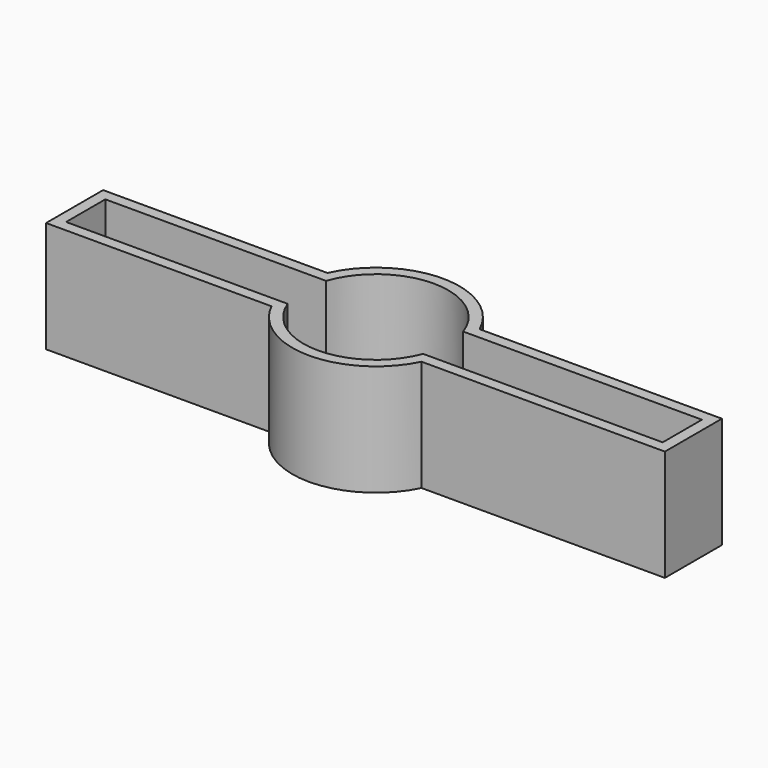
from build123d import *

# Parameters (mm, degrees)
F1_DEPTH = 25
F2_T     = -2.5


with BuildPart() as f1:
    # F0 (on Top) → F1 (new body)
    with BuildSketch(Plane.XY):
        with BuildLine():
            ThreePointArc((16.869956647, -8.264971897), (18.3005511205, -4.2420545043), (18.7857711508, 0))
            ThreePointArc((18.7857711508, 0), (18.3614890081, 3.9700024104), (17.1078076526, 7.7606774867))
            Line((17.1078076526, 7.7606774867), (-17.1078076526, 7.7606774867))
            ThreePointArc((-17.1078076526, 7.7606774867), (-18.7837024104, -0.278785739), (-16.869956647, -8.264971897))
            Line((-16.869956647, -8.264971897), (16.869956647, -8.264971897))
        make_face()
        with BuildLine():
            ThreePointArc((-16.869956647, -8.264971897), (-18.7837024104, -0.278785739), (-17.1078076526, 7.7606774867))
            Line((-17.1078076526, 7.7606774867), (-67.5351768732, 7.7606774867))
            Line((-67.5351768732, 7.7606774867), (-67.5351768732, -8.264971897))
            Line((-67.5351768732, -8.264971897), (-16.869956647, -8.264971897))
        make_face()
        with BuildLine():
            Line((-17.1078076526, 7.7606774867), (17.1078076526, 7.7606774867))
            ThreePointArc((17.1078076526, 7.7606774867), (0, 18.7857711508), (-17.1078076526, 7.7606774867))
        make_face()
        with BuildLine():
            ThreePointArc((17.1078076526, 7.7606774867), (18.3614890081, 3.9700024104), (18.7857711508, 0))
            ThreePointArc((18.7857711508, 0), (18.3005511205, -4.2420545043), (16.869956647, -8.264971897))
            Line((16.869956647, -8.264971897), (71.5805217624, -8.264971897))
            Line((71.5805217624, -8.264971897), (71.5805217624, 7.7606774867))
            Line((71.5805217624, 7.7606774867), (17.1078076526, 7.7606774867))
        make_face()
        with BuildLine():
            ThreePointArc((-16.869956647, -8.264971897), (0, -18.7857711508), (16.869956647, -8.264971897))
            Line((16.869956647, -8.264971897), (-16.869956647, -8.264971897))
        make_face()
    extrude(amount=F1_DEPTH)

    # F2
    f2_openings = [f1.faces().sort_by_distance(p)[0] for p in [
        (1.636892, -0.154216, 25),
    ]]
    offset(amount=F2_T, openings=f2_openings, kind=Kind.INTERSECTION)


solid = f1.part
